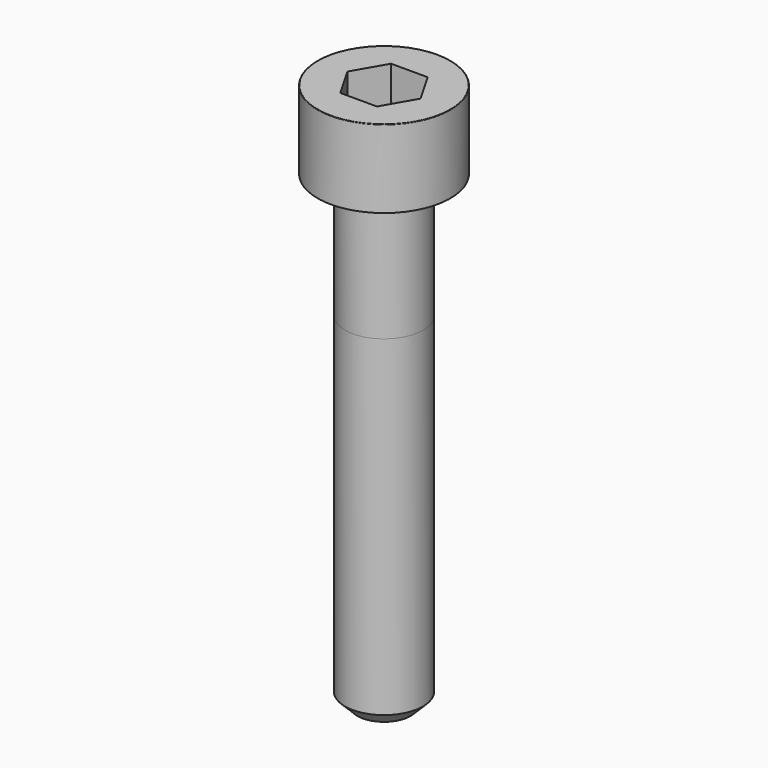
from build123d import *

# Parameters (mm, degrees)
POCKET_DEPTH = 4.06


with BuildPart() as part:
    # Sketch → Revolve (revolve)
    with BuildSketch(Plane.YZ):
        with BuildLine():
            Line((2.499, 0), (4.25, 0))
            Line((4.25, 0), (4.25, 4.97229))
            ThreePointArc((4.25, 4.97229), (4.241884, 4.991884), (4.22229, 5))
            Line((4.22229, 5), (0, 5))
            Line((0, -30), (0, 5))
            Line((1.7, -30), (0, -30))
            Line((2.5, -29.2), (1.7, -30))
            Line((2.5, -8), (2.5, -29.2))
            Line((2.499, 0), (2.5, -8))
        make_face()
    revolve(axis=Axis((0, 0, 0), (0, 0, 1)))

    # Sketch001 → Pocket (cut)
    with BuildSketch(Plane.XY.offset(5)):
        Polygon((2.344042, 0), (1.172021, 2.03), (-1.172021, 2.03), (-2.344042, 0), (-1.172021, -2.03), (1.172021, -2.03), align=None)
    extrude(amount=-POCKET_DEPTH, mode=Mode.SUBTRACT)


solid = part.part
